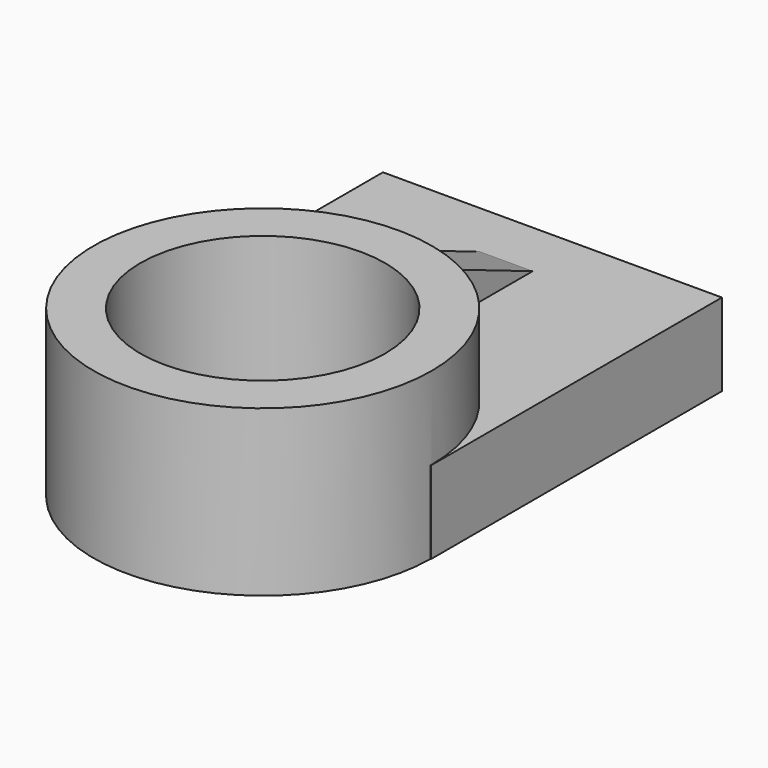
from build123d import *

# Parameters (mm, degrees)
F0_W     = 104.370906
F0_H     = 111.990906
F2_DEPTH = 25.4
F1_R     = 52.088044
F3_DEPTH = 50.8
F4_R     = 37.70573
F5_DEPTH = 50.801
F7_DEPTH = 17.78
F9_DEPTH = 60.288576


with BuildPart() as f2:
    # F0 (on Top) → F2 (new body)
    with BuildSketch(Plane.XY):
        Rectangle(F0_W, F0_H)
    extrude(amount=F2_DEPTH)

    # F1 (on Top) → F3 (join)
    with BuildSketch(Plane.XY):
        with Locations((-0.035915, -55.473275)):
            Circle(F1_R)
    extrude(amount=F3_DEPTH)

    # F4 (on face) → F5 (cut, through all)
    with BuildSketch(Plane.XY.offset(50.8)):
        with Locations((-0.035915, -55.473275)):
            Circle(F4_R)
    extrude(amount=-F5_DEPTH, mode=Mode.SUBTRACT)

    # F6 (on face) → F7 (join)
    with BuildSketch(Plane.XY.offset(25.4)):
        with BuildLine():
            ThreePointArc((-8.102123, -4.013576), (0.000443, -3.385244), (8.102123, -4.024887))
            Line((8.102123, -4.024887), (8.102123, 38.277184))
            Line((8.102123, 38.277184), (-8.102123, 38.277184))
            Line((-8.102123, 38.277184), (-8.102123, -4.013576))
        make_face()
    extrude(amount=F7_DEPTH)

    # F8 (on face) → F9 (cut, through all)
    with BuildSketch(Plane(origin=(-8.102123, 0, 0), x_dir=(0, -1, 0), z_dir=(-1, 0, 0))):
        Polygon((-38.277184, 43.18), (-38.277184, 25.4), (4.013576, 43.18), align=None)
    extrude(amount=-F9_DEPTH, mode=Mode.SUBTRACT)


solid = f2.part
